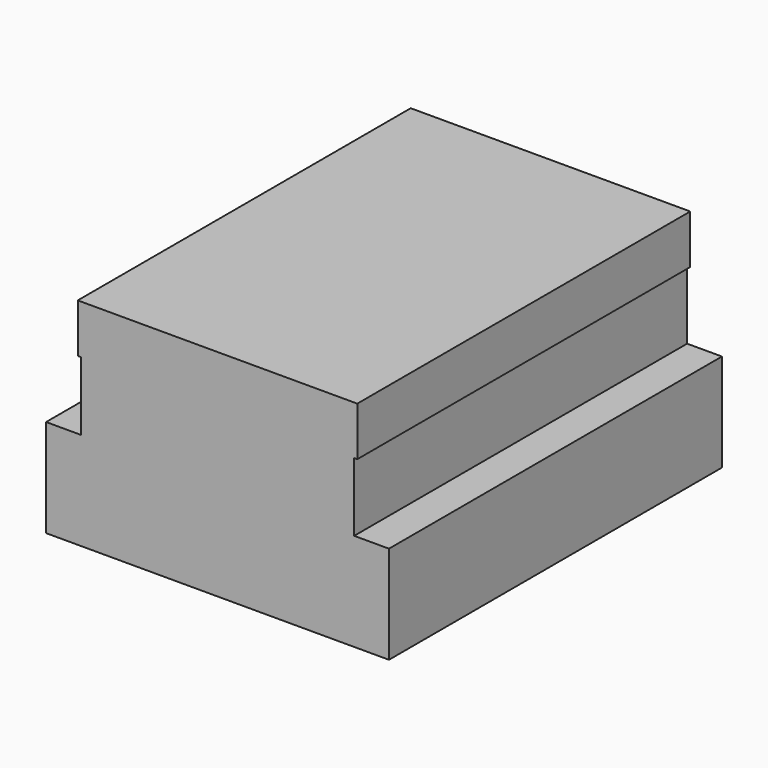
from build123d import *

# Parameters (mm, degrees)
F0_W     = 70.104
F0_H     = 85.09
F1_DEPTH = 10
F2_W     = 55.88
F2_H     = 85.09
F3_DEPTH = 14
F4_W     = 57.15
F4_H     = 85.09
F5_DEPTH = 10


with BuildPart() as f1:
    # F0 (on Top) → F1 (new body, symmetric)
    with BuildSketch(Plane.XY):
        Rectangle(F0_W, F0_H)
    extrude(amount=F1_DEPTH, both=True)

    # F2 (on face) → F3 (join)
    with BuildSketch(Plane.XY.offset(10)):
        Rectangle(F2_W, F2_H)
    extrude(amount=F3_DEPTH)

    # F4 (on face) → F5 (join)
    with BuildSketch(Plane.XY.offset(24)):
        Rectangle(F4_W, F4_H)
    extrude(amount=F5_DEPTH)


solid = f1.part
